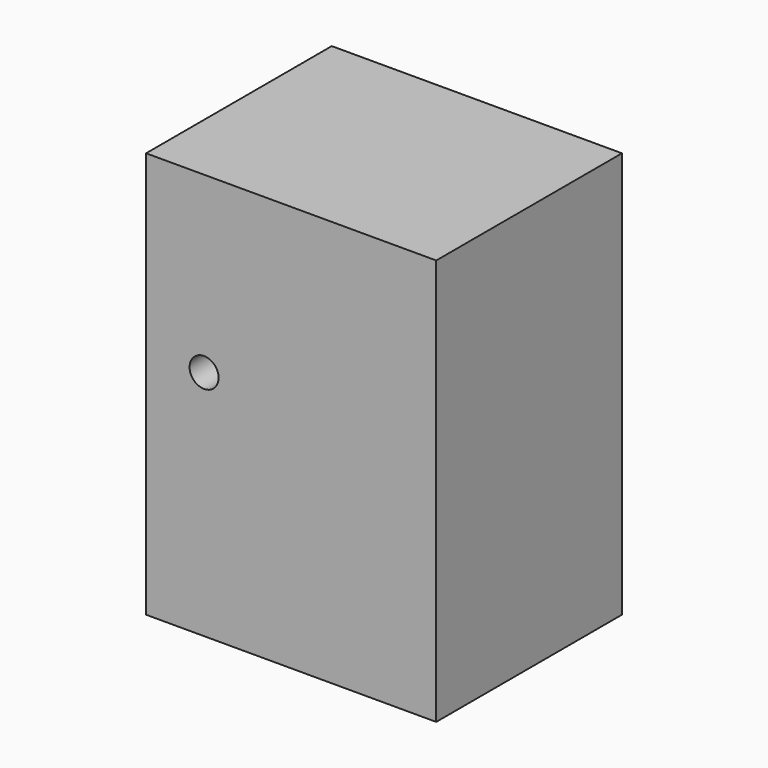
from build123d import *

# Parameters (mm, degrees)
F0_W     = 31.75
F0_H     = 44.45
F0_R     = 1.5875
F1_DEPTH = 25.4
F2_R     = 1.1303
F3_DEPTH = 6.35


with BuildPart() as f1:
    # F0 (on Front) → F1 (new body)
    with BuildSketch(Plane.XZ):
        with Locations((-15.875, 22.225)):
            Rectangle(F0_W, F0_H)
        with Locations((-25.4, 25.4)):
            Circle(F0_R, mode=Mode.SUBTRACT)
    extrude(amount=F1_DEPTH)

    # F2 (on Top) → F3 (cut)
    with BuildSketch(Plane.XY):
        with Locations((-21.166667, -12.7)):
            Circle(F2_R)
        with Locations((-21.166667, -12.7)):
            Circle(F2_R)
        with Locations((-10.583333, -12.7)):
            Circle(F2_R)
        with Locations((-10.583333, -12.7)):
            Circle(F2_R)
    extrude(amount=F3_DEPTH, mode=Mode.SUBTRACT)


solid = f1.part
